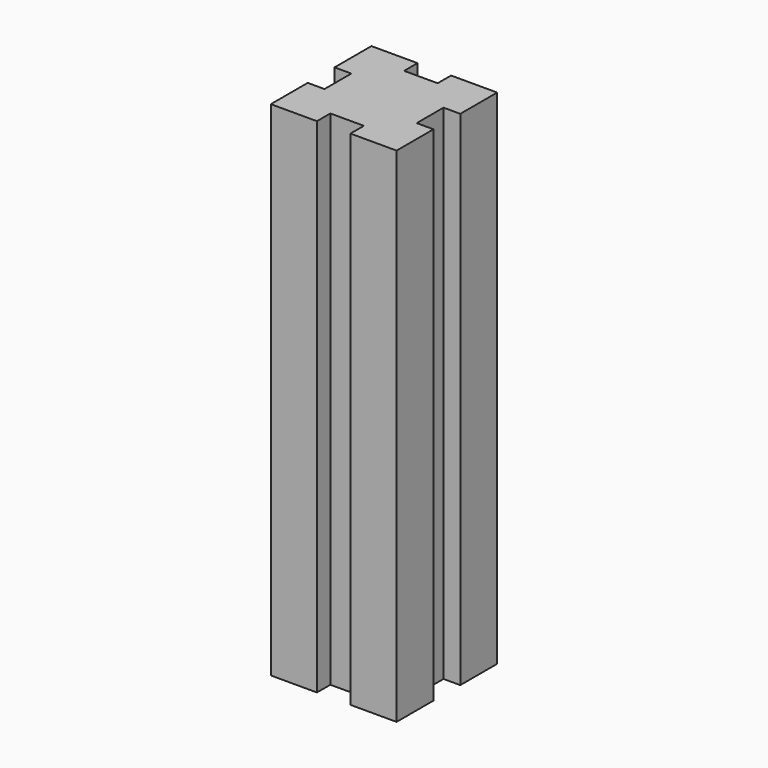
from build123d import *

# Parameters (mm, degrees)
SKETCH_W           = 30
SKETCH_H           = 30
PAD_DEPTH          = 120
SKETCH001_W        = 8
SKETCH001_H        = 4
POCKET_DEPTH       = 120
POLARPATTERN_COUNT = 4


with BuildPart() as part:
    # Sketch → Pad (new body)
    with BuildSketch(Plane.XY):
        Rectangle(SKETCH_W, SKETCH_H)
    extrude(amount=PAD_DEPTH)

    # Sketch001 (on Face6 of Pad) → Pocket (cut)
    with BuildSketch(Plane.XY.offset(120)):
        with Locations((0, 13)):
            Rectangle(SKETCH001_W, SKETCH001_H)
    pocket = extrude(amount=-POCKET_DEPTH, mode=Mode.SUBTRACT)

    # PolarPattern: Pocket ×4 about axis
    polarpattern_axis = Axis((0, 0, 120), (0, 0, 1))
    for i in range(1, POLARPATTERN_COUNT):
        add(pocket.rotate(polarpattern_axis, i * 360 / POLARPATTERN_COUNT), mode=Mode.SUBTRACT)


solid = part.part
